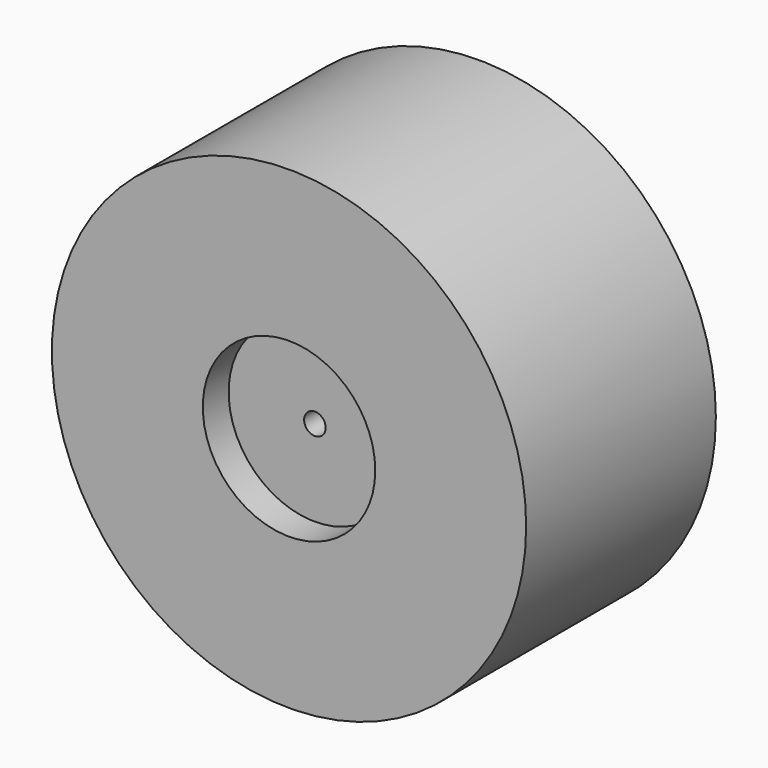
from build123d import *

# Parameters (mm, degrees)
F0_R     = 279.4
F0_R_2   = 101.6
F2_DEPTH = 139.7
F1_R     = 101.6
F1_R_2   = 12.7
F3_DEPTH = 101.6


with BuildPart() as f2:
    # F0 (on Front) → F2 (new body, symmetric)
    with BuildSketch(Plane.XZ):
        Circle(F0_R)
        Circle(F0_R_2, mode=Mode.SUBTRACT)
    extrude(amount=F2_DEPTH, both=True)

    # F1 (on face) → F3 (join, symmetric)
    with BuildSketch(Plane.XZ):
        Circle(F1_R)
        Circle(F1_R_2, mode=Mode.SUBTRACT)
    extrude(amount=F3_DEPTH, both=True)


solid = f2.part
